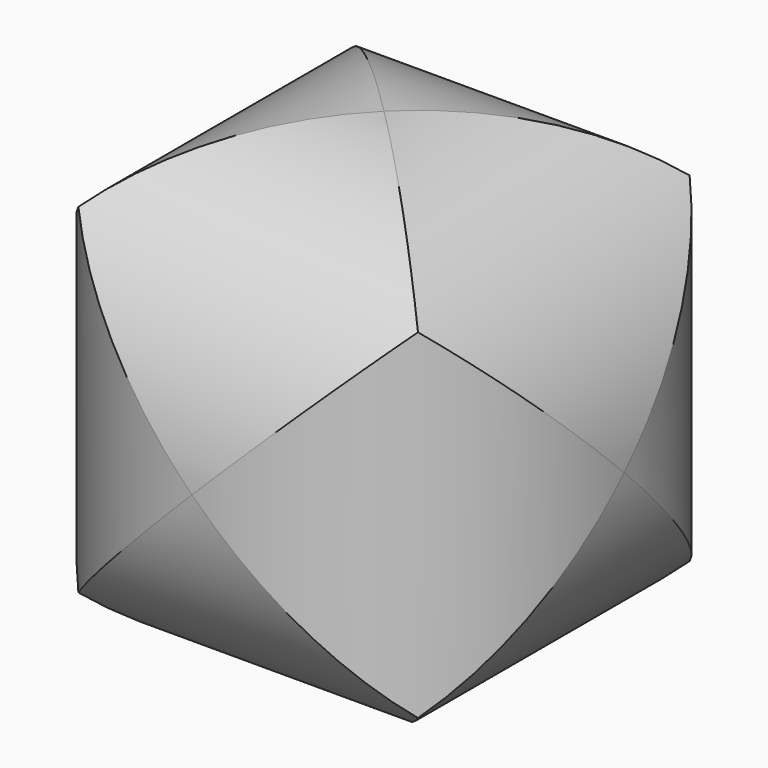
from build123d import *

# Parameters (mm, degrees)
F0_W     = 50
F0_H     = 50
F1_DEPTH = 50
F5_DEPTH = 60
F6_DEPTH = 60
F7_DEPTH = 60


with BuildPart() as f1:
    # F0 (on Top) → F1 (new body)
    with BuildSketch(Plane.XY):
        Rectangle(F0_W, F0_H)
    extrude(amount=F1_DEPTH)

    # F2 (on face) → F5 (cut)
    with BuildSketch(Plane.XZ.offset(25)):
        with BuildLine():
            ThreePointArc((2.61e-08, 50), (17.6776695389, 42.6776695204), (25, 25))
            Line((25, 25), (25, 50))
            Line((25, 50), (2.61e-08, 50))
        make_face()
        with BuildLine():
            Line((25, 0), (25, 25))
            ThreePointArc((25, 25), (17.677669509, 7.3223304497), (-5.83e-08, 0))
            Line((-5.83e-08, 0), (25, 0))
        make_face()
        with BuildLine():
            Line((-25, 0), (-5.83e-08, 0))
            ThreePointArc((-5.83e-08, 0), (-17.6776695503, 7.322330491), (-25, 25))
            Line((-25, 25), (-25, 0))
        make_face()
        with BuildLine():
            ThreePointArc((-25, 25), (-17.6776695204, 42.6776695389), (2.61e-08, 50))
            Line((2.61e-08, 50), (-25, 50))
            Line((-25, 50), (-25, 25))
        make_face()
    extrude(amount=-F5_DEPTH, mode=Mode.SUBTRACT)

    # F4 (on face) → F6 (cut)
    with BuildSketch(Plane.YZ.offset(25)):
        with BuildLine():
            ThreePointArc((-25, 25), (-17.6776695204, 42.6776695389), (2.61e-08, 50))
            Line((2.61e-08, 50), (-25, 50))
            Line((-25, 50), (-25, 25))
        make_face()
        with BuildLine():
            ThreePointArc((2.61e-08, 50), (17.6776695389, 42.6776695204), (25, 25))
            Line((25, 25), (25, 50))
            Line((25, 50), (2.61e-08, 50))
        make_face()
        with BuildLine():
            Line((25, 0), (25, 25))
            ThreePointArc((25, 25), (17.677669509, 7.3223304497), (-5.83e-08, 0))
            Line((-5.83e-08, 0), (25, 0))
        make_face()
        with BuildLine():
            Line((-25, 0), (-5.83e-08, 0))
            ThreePointArc((-5.83e-08, 0), (-17.6776695503, 7.322330491), (-25, 25))
            Line((-25, 25), (-25, 0))
        make_face()
    extrude(amount=-F6_DEPTH, mode=Mode.SUBTRACT)

    # F3 (on face) → F7 (cut)
    with BuildSketch(Plane.XY.offset(50)):
        with BuildLine():
            Line((25, -25), (25, 0))
            ThreePointArc((25, 0), (17.677669509, -17.6776695503), (-5.83e-08, -25))
            Line((-5.83e-08, -25), (25, -25))
        make_face()
        with BuildLine():
            Line((-25, -25), (-5.83e-08, -25))
            ThreePointArc((-5.83e-08, -25), (-17.6776695595, -17.6776694998), (-25, 2.61e-08))
            Line((-25, 2.61e-08), (-25, -25))
        make_face()
        with BuildLine():
            ThreePointArc((-25, 2.61e-08), (-17.6776695204, 17.6776695389), (0, 25))
            Line((0, 25), (-25, 25))
            Line((-25, 25), (-25, 2.61e-08))
        make_face()
        with BuildLine():
            ThreePointArc((0, 25), (17.6776695297, 17.6776695297), (25, 0))
            Line((25, 0), (25, 25))
            Line((25, 25), (0, 25))
        make_face()
    extrude(amount=-F7_DEPTH, mode=Mode.SUBTRACT)


solid = f1.part
